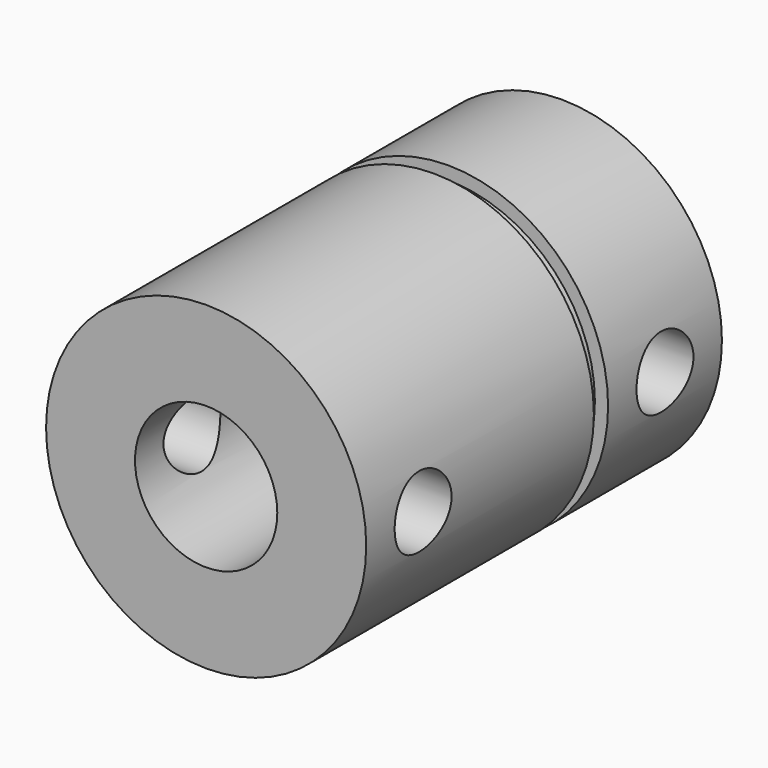
from build123d import *

# Parameters (mm, degrees)
F0_R          = 9
F1_DEPTH      = 25
F2_R          = 5
F3_DEPTH      = 10
F4_R          = 4
F5_DEPTH      = 8
F6_R          = 2
F7_DEPTH      = 9.001
F7_DEPTH_BACK = 9.001
F9_R          = 9.6900130566
F10_DEPTH     = 1
F11_R         = 8.2586159941
F12_DEPTH     = 17.0010001


with BuildPart() as f1:
    # F0 (on Front) → F1 (new body)
    with BuildSketch(Plane.XZ):
        Circle(F0_R)
    extrude(amount=F1_DEPTH)

    # F2 (on face) → F3 (cut)
    with BuildSketch(Plane(origin=(0, 0, 0), x_dir=(-1, 0, 0), z_dir=(0, 1, 0))):
        Circle(F2_R)
    extrude(amount=-F3_DEPTH, mode=Mode.SUBTRACT)

    # F4 (on face) → F5 (cut)
    with BuildSketch(Plane.XZ.offset(25)):
        Circle(F4_R)
    extrude(amount=-F5_DEPTH, mode=Mode.SUBTRACT)

    # F6 (on Right) → F7 (cut, two sides)
    with BuildSketch(Plane.YZ) as f7_sk:
        with Locations((-21, 0)):
            Circle(F6_R)
        with Locations((-4, 0)):
            Circle(F6_R)
    extrude(amount=-F7_DEPTH, mode=Mode.SUBTRACT)
    extrude(f7_sk.sketch, amount=F7_DEPTH_BACK, mode=Mode.SUBTRACT)


with BuildPart() as f10:
    # F9 (on offset) → F10 (new body)
    with BuildSketch(Plane.XZ.offset(8)):
        Circle(F9_R)
    extrude(amount=F10_DEPTH)

    # F11 (on face) → F12 (cut, through all)
    with BuildSketch(Plane(origin=(0, -8, 0), x_dir=(-1, 0, 0), z_dir=(0, 1, 0))):
        Circle(F11_R)
    extrude(amount=-F12_DEPTH, mode=Mode.SUBTRACT)


with BuildPart() as f1_1:
    add(f1.part)

    # F13: cut F10
    add(f10.part, mode=Mode.SUBTRACT)


solid = f1_1.part
